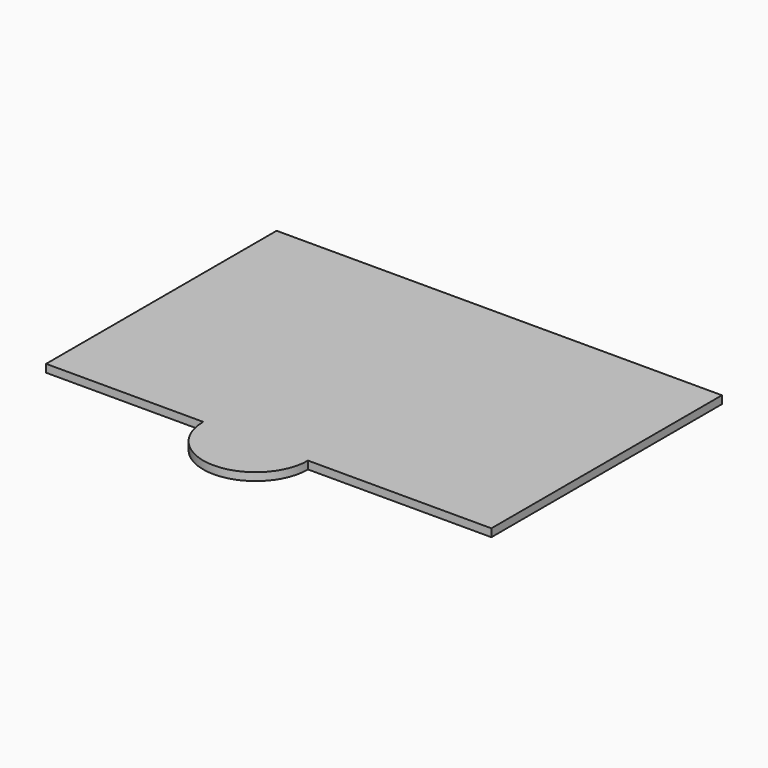
from build123d import *

# Parameters (mm, degrees)
CYLINDER_R     = 20
CYLINDER_DEPTH = 3
BOX002_W       = 170
BOX002_H       = 110
BOX002_DEPTH   = 3


with BuildPart() as cilindro:
    # Cylinder → Cylinder (new body)
    with BuildSketch(Plane(origin=(80, 0, 0), x_dir=(1, 0, 0), z_dir=(0, 0, 1))):
        Circle(CYLINDER_R)
    extrude(amount=CYLINDER_DEPTH)


with BuildPart() as obj1:
    # Box002 → Box002 (new body)
    with BuildSketch(Plane.XY):
        with Locations((85, 55)):
            Rectangle(BOX002_W, BOX002_H)
    extrude(amount=BOX002_DEPTH)

    # Fusion: union Cilindro
    add(cilindro.part)


with BuildPart() as obj1_1:
    # Fusion placement: moved
    add(obj1.part.moved(Location((5, -30, 5))))


solid = obj1_1.part
